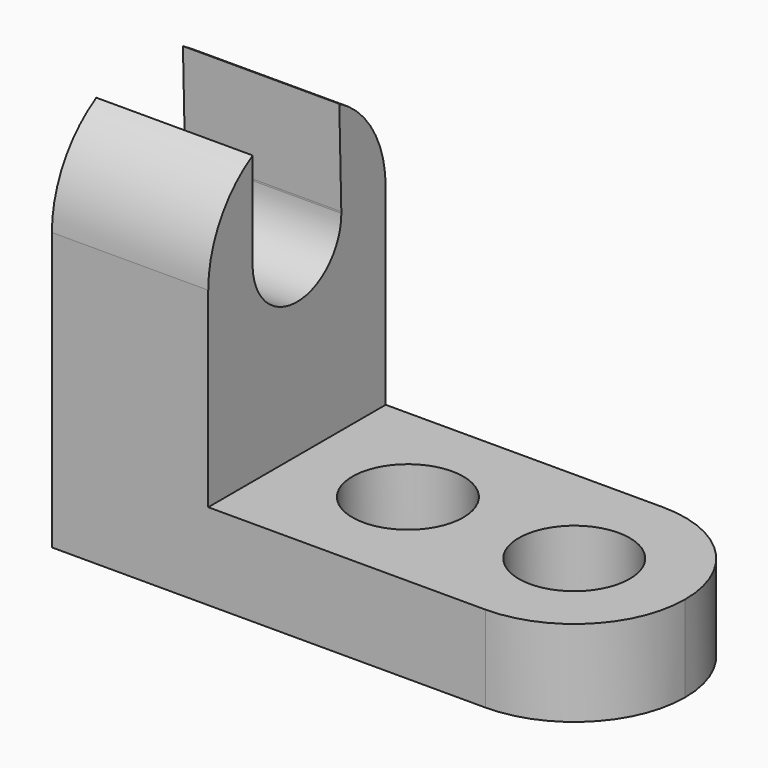
from build123d import *

# Parameters (mm, degrees)
F1_DEPTH = 25.4
F3_DEPTH = 9.878778
F5_DEPTH = 17.904465
F7_DEPTH = 17.904465
F8_R     = 6.35
F9_DEPTH = 9.878778


with BuildPart() as f1:
    # F0 (on Front) → F1 (new body)
    with BuildSketch(Plane.XZ):
        Polygon((-72.174763, 57.95379), (-72.174763, 13.50379), (-9.821297, 13.50379), (-9.821297, 23.381569), (-54.271297, 23.381569), (-54.271297, 57.95379), align=None)
    extrude(amount=F1_DEPTH)

    # F2 (on face) → F3 (cut, through all)
    with BuildSketch(Plane.XY.offset(23.381569)):
        with BuildLine():
            Line((-9.821297, -12.7), (-9.821297, 0))
            Line((-9.821297, 0), (-22.521297, 0))
            ThreePointArc((-22.521297, 0), (-13.541041, -3.719744), (-9.821297, -12.7))
        make_face()
        with BuildLine():
            Line((-9.821297, -25.4), (-9.821297, -12.7))
            ThreePointArc((-9.821297, -12.7), (-13.541041, -21.680256), (-22.521297, -25.4))
            Line((-22.521297, -25.4), (-9.821297, -25.4))
        make_face()
    extrude(amount=-F3_DEPTH, mode=Mode.SUBTRACT)

    # F4 (on face) → F5 (cut, through all)
    with BuildSketch(Plane.YZ.offset(-54.271297)):
        with BuildLine():
            Line((-12.7, 57.95379), (-25.4, 57.95379))
            Line((-25.4, 57.95379), (-25.4, 45.25379))
            ThreePointArc((-25.4, 45.25379), (-21.680256, 54.234047), (-12.7, 57.95379))
        make_face()
        with BuildLine():
            Line((0, 57.95379), (-12.7, 57.95379))
            ThreePointArc((-12.7, 57.95379), (-3.719744, 54.234047), (0, 45.25379))
            Line((0, 45.25379), (0, 57.95379))
        make_face()
    extrude(amount=-F5_DEPTH, mode=Mode.SUBTRACT)

    # F6 (on face) → F7 (cut, through all)
    with BuildSketch(Plane.YZ.offset(-54.271297)):
        with BuildLine():
            ThreePointArc((-19.042094, 45.570553), (-12.625386, 51.603352), (-6.352213, 45.421435))
            Line((-6.352213, 45.421435), (-6.642582, 56.416124))
            ThreePointArc((-6.642582, 56.416124), (-12.863096, 57.952743), (-19.042094, 56.256874))
            Line((-19.042094, 56.256874), (-19.042094, 45.570553))
        make_face()
        with BuildLine():
            ThreePointArc((-19.042094, 44.937028), (-12.541569, 38.905767), (-6.35, 45.25379))
            ThreePointArc((-6.35, 45.25379), (-6.350553, 45.33762), (-6.352213, 45.421435))
            ThreePointArc((-6.352213, 45.421435), (-12.625386, 51.603352), (-19.042094, 45.570553))
            Line((-19.042094, 45.570553), (-19.042094, 44.937028))
        make_face()
    extrude(amount=-F7_DEPTH, mode=Mode.SUBTRACT)

    # F8 (on face) → F9 (cut, through all)
    with BuildSketch(Plane.XY.offset(23.381569)):
        with Locations((-41.571297, -12.7)):
            Circle(F8_R)
        with Locations((-22.521297, -12.7)):
            Circle(F8_R)
    extrude(amount=-F9_DEPTH, mode=Mode.SUBTRACT)


solid = f1.part
